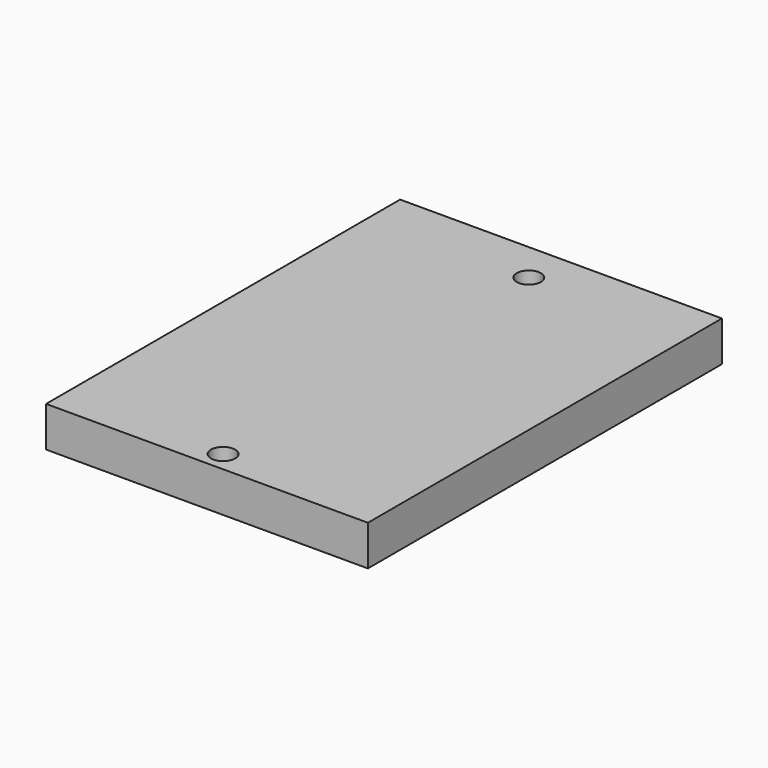
from build123d import *

# Parameters (mm, degrees)
F0_W     = 50.8
F0_H     = 50.8
F0_R     = 1.905
F0_H_2   = 6.35
F1_DEPTH = 6.35


with BuildPart() as f1:
    # F0 (on Top) → F1 (new body)
    with BuildSketch(Plane.XY):
        Rectangle(F0_W, F0_H)
        Polygon((-25.4, 31.750001), (-25.4, 25.4), (25.4, 25.4), (25.4, 31.750001), (25.4, 38.100001), (14.365858, 38.100001), (-14.365858, 38.100001), (-25.4, 38.100001), align=None)
        with Locations((0, 31.750001)):
            Circle(F0_R, mode=Mode.SUBTRACT)
        with Locations((0, -28.575)):
            Rectangle(F0_W, F0_H_2)
        with Locations((0, -28.575)):
            Circle(F0_R, mode=Mode.SUBTRACT)
    extrude(amount=F1_DEPTH)


solid = f1.part
